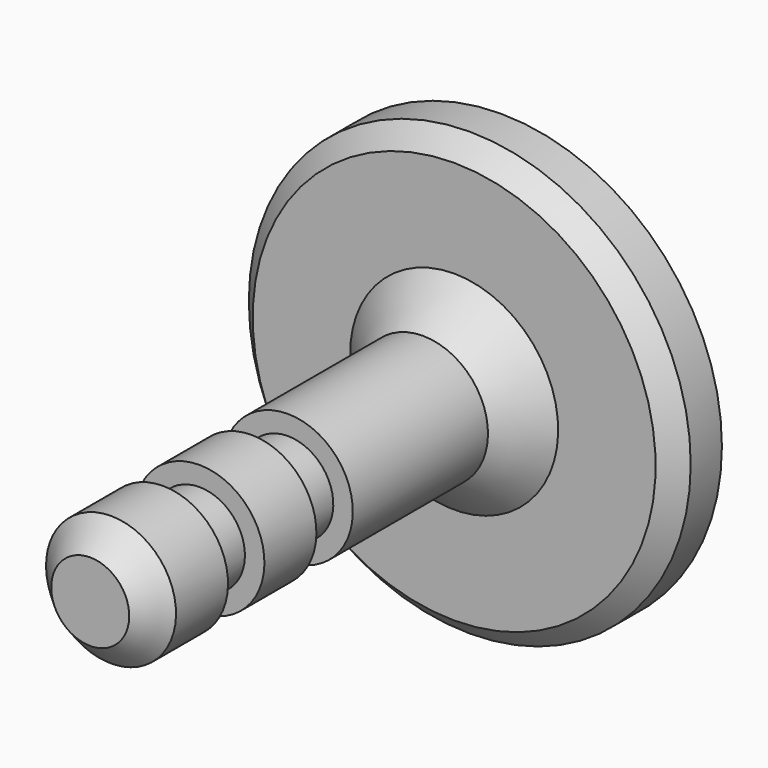
from build123d import *


with BuildPart() as f1:
    # F0 (on Right) → F1 (revolve)
    with BuildSketch(Plane.YZ):
        Polygon((-3, 3), (-7, 17), (-10, 17), (-11.5, 15.5), (-11.5, 8), (-14.5, 5), (-27.5, 5), (-27.5, 3.5), (-31, 3.5), (-31, 5), (-36, 5), (-36, 3.5), (-39.5, 3.5), (-39.5, 5), (-44.5, 5), (-46.5, 3), (-46.5, 0), (0, 0), align=None)
    revolve(axis=Axis((0, -23.25, 0), (0, 1, 0)))


solid = f1.part
